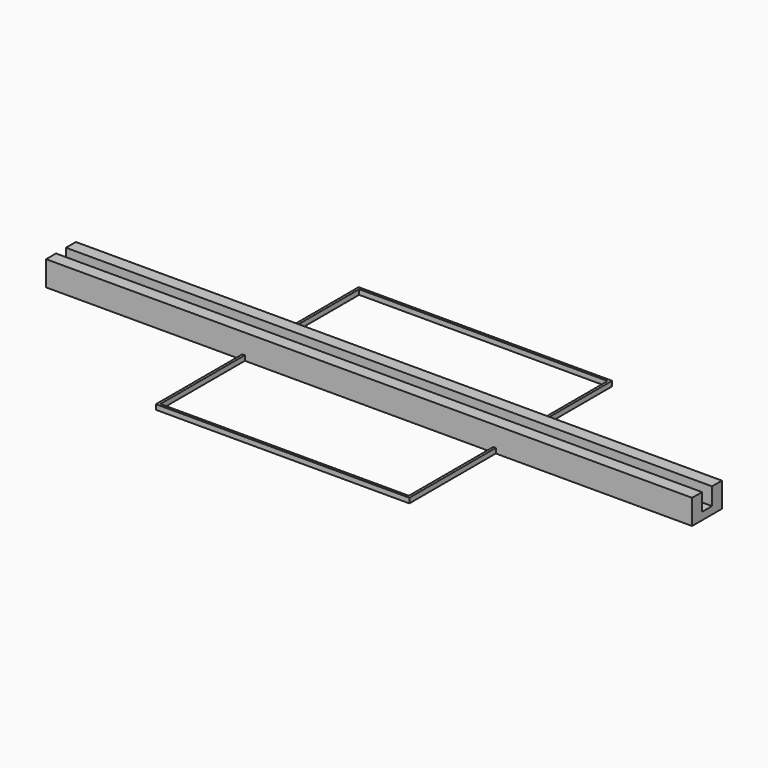
from build123d import *

# Parameters (mm, degrees)
F0_W     = 102
F0_H     = 102
F0_W_2   = 100
F0_H_2   = 100
F1_DEPTH = 2
F2_W     = 260
F2_H     = 15
F3_DEPTH = 10
F4_W     = 260
F4_H     = 5
F5_DEPTH = 7


with BuildPart() as f1:
    # F0 (on Top) → F1 (new body)
    with BuildSketch(Plane.XY):
        Rectangle(F0_W, F0_H)
        Rectangle(F0_W_2, F0_H_2, mode=Mode.SUBTRACT)
    extrude(amount=F1_DEPTH)


with BuildPart() as f3:
    # F2 (on Top) → F3 (new body)
    with BuildSketch(Plane.XY):
        Rectangle(F2_W, F2_H)
    extrude(amount=F3_DEPTH)

    # F4 (on face) → F5 (cut)
    with BuildSketch(Plane.XY.offset(10)):
        Rectangle(F4_W, F4_H)
    extrude(amount=-F5_DEPTH, mode=Mode.SUBTRACT)


solid = Compound([f1.part, f3.part])
